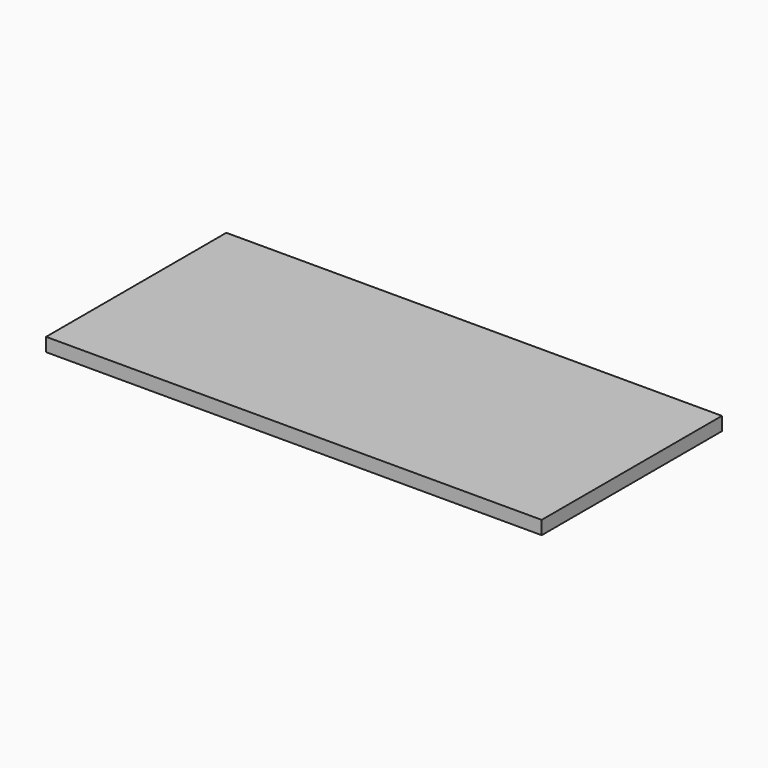
from build123d import *

# Parameters (mm, degrees)
SKETCH_W  = 110
SKETCH_H  = 50
PAD_DEPTH = 3


with BuildPart() as part:
    # Sketch → Pad (new body)
    with BuildSketch(Plane.XY):
        Rectangle(SKETCH_W, SKETCH_H)
    extrude(amount=PAD_DEPTH)


solid = part.part
